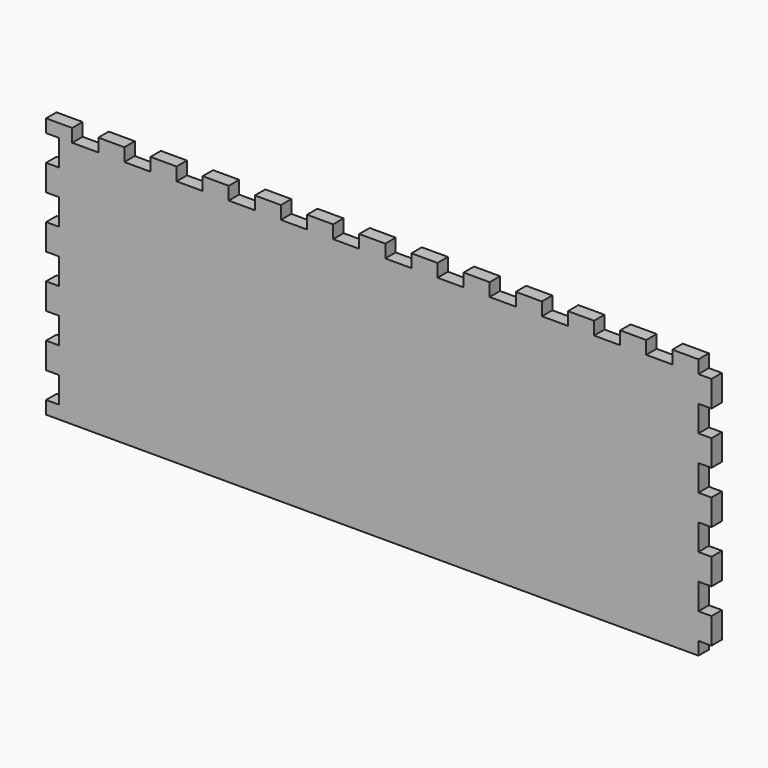
from build123d import *

# Parameters (mm, degrees)
SKETCH053_W             = 95
SKETCH053_H             = 250
PAD037_DEPTH            = 5
SKETCH057_W             = 10
SKETCH057_H             = 5
PAD041_DEPTH            = 5
LINEARPATTERN032_COUNT  = 5
LINEARPATTERN032_PITCH  = 20
SKETCH061_W             = 10
SKETCH061_H             = 5
PAD042_DEPTH            = 5
LINEARPATTERN036_COUNT  = 13
LINEARPATTERN036_PITCH  = 20
SKETCH070_W             = 10
SKETCH070_H             = 5
POCKET023_DEPTH         = 5
LINEARPATTERN045_COUNT  = 5
LINEARPATTERN045_PITCH  = 20
BODY016_PITCH_ANGLE     = -90
BODY016_PLACEMENT_ANGLE = 90


with BuildPart() as part:
    # Sketch053 → Pad037 (new body)
    with BuildSketch(Plane.XY):
        Rectangle(SKETCH053_W, SKETCH053_H)
    extrude(amount=PAD037_DEPTH)

    # Sketch057 (on DatumPlane) → Pad041 (join)
    with BuildSketch(Plane.XZ.offset(125)):
        with Locations((-37.5, 2.5)):
            Rectangle(SKETCH057_W, SKETCH057_H)
    pad041 = extrude(amount=PAD041_DEPTH)

    # LinearPattern032: Pad041 ×5
    with Locations(*[(i * LINEARPATTERN032_PITCH, 0, 0) for i in range(1, LINEARPATTERN032_COUNT)]):
        add(pad041)

    # Sketch061 (on DatumPlane) → Pad042 (join)
    with BuildSketch(Plane.YZ.offset(47.5)):
        with Locations((-120, 2.5)):
            Rectangle(SKETCH061_W, SKETCH061_H)
    pad042 = extrude(amount=PAD042_DEPTH)

    # LinearPattern036: Pad042 ×13
    with Locations(*[(0, i * LINEARPATTERN036_PITCH, 0) for i in range(1, LINEARPATTERN036_COUNT)]):
        add(pad042)

    # Sketch070 (on DatumPlane) → Pocket023 (cut)
    with BuildSketch(Plane(origin=(0, 125, 0), x_dir=(-1, 0, 0), z_dir=(0, 1, 0))):
        with Locations((-42.5, 2.5)):
            Rectangle(SKETCH070_W, SKETCH070_H)
    pocket023 = extrude(amount=-POCKET023_DEPTH, mode=Mode.SUBTRACT)

    # LinearPattern045: Pocket023 ×5
    with Locations(*[(-i * LINEARPATTERN045_PITCH, 0, 0) for i in range(1, LINEARPATTERN045_COUNT)]):
        add(pocket023, mode=Mode.SUBTRACT)


with BuildPart() as part_1:
    # Body016 pitch: moved
    add(part.part.rotate(Axis((0, 0, 0), (0, 1, 0)), BODY016_PITCH_ANGLE))


with BuildPart() as part_2:
    # Body016 placement: moved
    add(part_1.part.moved(Location((125, -145, 152.5))).rotate(Axis((125, -145, 152.5), (0, 0, 1)), BODY016_PLACEMENT_ANGLE))


solid = part_2.part
